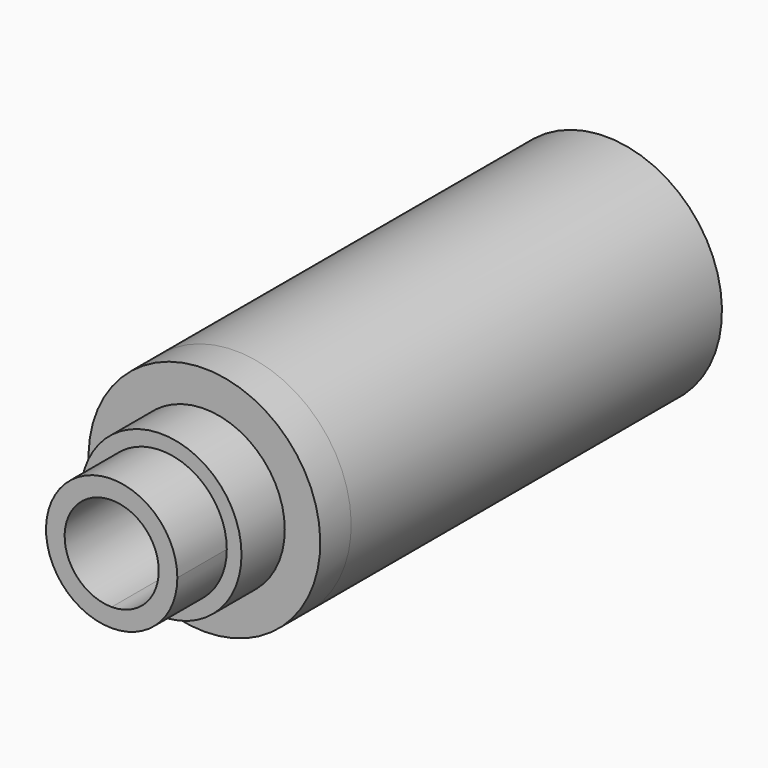
from build123d import *

# Parameters (mm, degrees)
F1_DEPTH      = 10
F3_DEPTH      = 30
F3_DEPTH_BACK = 2.5
F4_R          = 5.2024526328
F4_R_2        = 3.55143811
F5_DEPTH      = 3.5
F5_DEPTH_BACK = 25


with BuildPart() as f1:
    # F0 (on Front) → F1 (new body)
    with BuildSketch(Plane.XZ):
        with BuildLine():
            ThreePointArc((4.25, 15.7618727535), (-3.00520382, 18.7670765735), (0, 11.5118727535))
            ThreePointArc((0, 11.5118727535), (3.00520382, 12.7566689335), (4.25, 15.7618727535))
        make_face()
        with BuildLine():
            ThreePointArc((0, 12.7168727535), (-2.1531401487, 17.9150129022), (3.045, 15.7618727535))
            ThreePointArc((3.045, 15.7618727535), (2.1531401487, 13.6087326048), (0, 12.7168727535))
        make_face(mode=Mode.SUBTRACT)
    extrude(amount=F1_DEPTH)


with BuildPart() as f3:
    # F2 (on Front) → F3 (new body, two sides)
    with BuildSketch(Plane.XZ) as f3_sk:
        with BuildLine():
            ThreePointArc((7.5, 15.76187), (-5.3033008589, 21.0651708589), (0, 8.26187))
            ThreePointArc((0, 8.26187), (5.3033008589, 10.4585691411), (7.5, 15.76187))
        make_face()
        with BuildLine():
            ThreePointArc((5, 15.76187), (3.5355339059, 12.2263360941), (0, 10.76187))
            ThreePointArc((0, 10.76187), (-3.5355339059, 19.2974039059), (5, 15.76187))
        make_face(mode=Mode.SUBTRACT)
    extrude(amount=-F3_DEPTH)
    extrude(f3_sk.sketch, amount=F3_DEPTH_BACK)


with BuildPart() as f5:
    # F4 (on face) → F5 (new body, two sides)
    with BuildSketch(Plane.XZ.offset(2.5)) as f5_sk:
        with Locations((0, 15.76187)):
            Circle(F4_R)
        with Locations((0, 15.76187)):
            Circle(F4_R_2, mode=Mode.SUBTRACT)
    extrude(amount=F5_DEPTH)
    extrude(f5_sk.sketch, amount=-F5_DEPTH_BACK)


solid = Compound([f1.part, f3.part, f5.part])
